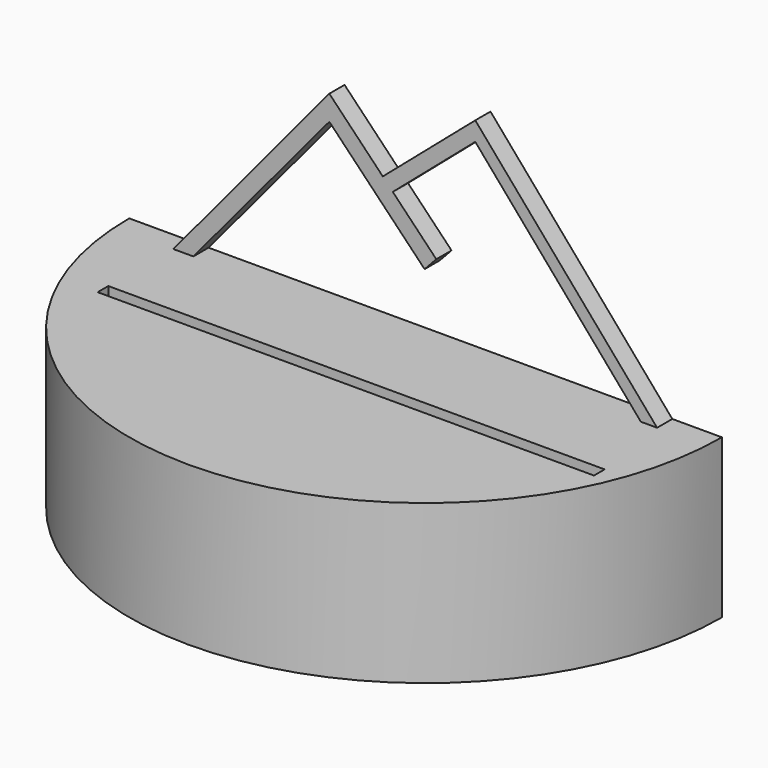
from build123d import *

# Parameters (mm, degrees)
F0_W     = 78.272713
F0_H     = 2.1
F2_DEPTH = 25
F3_DEPTH = 3


with BuildPart() as f2:
    # F0 (on Top) → F2 (new body)
    with BuildSketch(Plane.XY):
        with BuildLine():
            Line((46.733256, 0), (-46.733256, 0))
            ThreePointArc((-46.733256, 0), (0, -46.733256), (46.733256, 0))
        make_face()
        with Locations((1.66543, -16.751915)):
            Rectangle(F0_W, F0_H, mode=Mode.SUBTRACT)
    extrude(amount=-F2_DEPTH)

    # F1 (on Front) → F3 (join)
    with BuildSketch(Plane.XZ):
        Polygon((10.241451, 33.356465), (-4.342105, 20.822494), (-2.768987, 19.190569), (10.241451, 30.37251), (36.345385, 0), (38.909973, 0), align=None)
        Polygon((-12.776917, 29.572627), (-37.371881, 0), (-34.21868, 0), (-12.776917, 25.678841), (2.246545, 10.093755), (4.092708, 12.072362), (-2.768987, 19.190569), (-4.342105, 20.822494), align=None)
    extrude(amount=F3_DEPTH)


solid = f2.part
